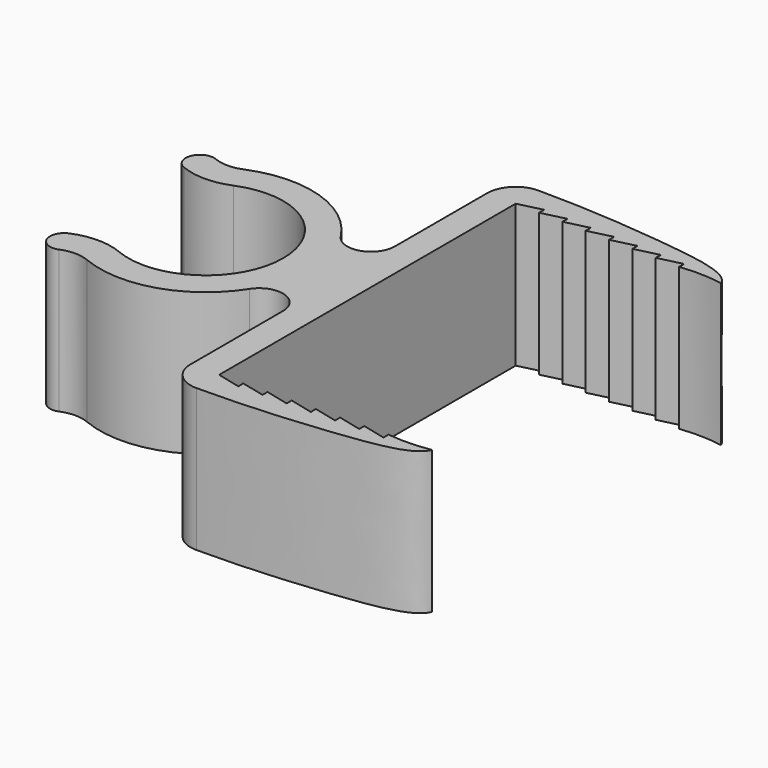
from build123d import *

# Parameters (mm, degrees)
F1_DEPTH = 15


with BuildPart() as f1:
    # F0 (on Top) → F1 (new body)
    with BuildSketch(Plane.XY):
        with BuildLine():
            ThreePointArc((-17.1188699738, 7.52961819), (-5.85, 0), (-17.1188699738, -7.52961819))
            ThreePointArc((-17.1188699738, -7.52961819), (-19.7211173139, -7.011999011), (-22.3233646539, -7.52961819))
            ThreePointArc((-22.3233646539, -7.52961819), (-23.1351588042, -9.4894626373), (-21.1753143568, -10.3012567875))
            ThreePointArc((-21.1753143568, -10.3012567875), (-19.7211173139, -10.011999011), (-18.2669202709, -10.3012567875))
            ThreePointArc((-18.2669202709, -10.3012567875), (-10.6560319472, -10.6367465732), (-4.6062271062, -6.006623912))
            ThreePointArc((-4.6062271062, -6.006623912), (-2.85, 0), (-4.6062271062, 6.006623912))
            ThreePointArc((-4.6062271062, 6.006623912), (-10.6560319472, 10.6367465732), (-18.2669202709, 10.3012567875))
            ThreePointArc((-18.2669202709, 10.3012567875), (-19.7211173139, 10.011999011), (-21.1753143568, 10.3012567875))
            ThreePointArc((-21.1753143568, 10.3012567875), (-23.1351588042, 9.4894626373), (-22.3233646539, 7.52961819))
            ThreePointArc((-22.3233646539, 7.52961819), (-19.7211173139, 7.011999011), (-17.1188699738, 7.52961819))
        make_face()
        with BuildLine():
            ThreePointArc((-4.6062271062, 6.006623912), (-2.85, 0), (-4.6062271062, -6.006623912))
            ThreePointArc((-4.6062271062, -6.006623912), (-1.7984188449, -4.9538623094), (0, -7.3534005739))
            Line((0, -7.3534005739), (0, 0))
            Line((0, 0), (0, 7.3534005739))
            ThreePointArc((0, 7.3534005739), (-1.7984188449, 4.9538623094), (-4.6062271062, 6.006623912))
        make_face()
        with BuildLine():
            Line((0, 19.5), (0, 7.3534005739))
            Line((0, 7.3534005739), (0, 0))
            Line((0, 0), (3, 0))
            Line((3, 0), (3, 19.5))
            Line((3, 19.5), (5.5145750444, 20.1128965303))
            Line((5.5145750444, 20.1128965303), (5.4993545889, 19.4431964866))
            Line((5.4993545889, 19.4431964866), (8.0139296333, 20.0560930169))
            Line((8.0139296333, 20.0560930169), (7.9987091777, 19.3863929732))
            Line((7.9987091777, 19.3863929732), (10.5132842221, 19.9992895035))
            Line((10.5132842221, 19.9992895035), (10.4980637666, 19.3295894599))
            Line((10.4980637666, 19.3295894599), (13.012638811, 19.9424859902))
            Line((13.012638811, 19.9424859902), (12.9974183554, 19.2727859465))
            Line((12.9974183554, 19.2727859465), (15.5119933999, 19.8856824768))
            Line((15.5119933999, 19.8856824768), (15.4967729443, 19.2159824331))
            Line((15.4967729443, 19.2159824331), (18.0113479887, 19.8288789634))
            Line((18.0113479887, 19.8288789634), (17.9961275332, 19.1591789197))
            Line((17.9961275332, 19.1591789197), (20.5107025776, 19.77207545))
            Line((20.5107025776, 19.77207545), (20.495482122, 19.1023754063))
            ThreePointArc((20.495482122, 19.1023754063), (22.7516069101, 19.2212850643), (25, 19))
            add(Edge.make_bspline(
                [(3, 22.5), (8, 22.5), (16.9649489174, 21.8239376647), (24.4, 20.55), (25, 19)],
                knots=[0, 0, 0, 0, 0.5871428907, 1, 1, 1, 1], degree=3))
            ThreePointArc((3, 22.5), (0.8786796564, 21.6213203436), (0, 19.5))
        make_face()
        with BuildLine():
            Line((0, 0), (0, -7.3534005739))
            Line((0, -7.3534005739), (0, -19.5))
            ThreePointArc((0, -19.5), (0.8786796564, -21.6213203436), (3, -22.5))
            add(Edge.make_bspline(
                [(3, -22.5), (8, -22.5), (16.9649489174, -21.8239376647), (24.4, -20.55), (25, -19)],
                knots=[0, 0, 0, 0, 0.5871428907, 1, 1, 1, 1], degree=3))
            ThreePointArc((25, -19), (22.7516069101, -19.2212850643), (20.495482122, -19.1023754063))
            Line((20.495482122, -19.1023754063), (20.5107025776, -19.77207545))
            Line((20.5107025776, -19.77207545), (17.9961275332, -19.1591789197))
            Line((17.9961275332, -19.1591789197), (18.0113479887, -19.8288789634))
            Line((18.0113479887, -19.8288789634), (15.4967729443, -19.2159824331))
            Line((15.4967729443, -19.2159824331), (15.5119933999, -19.8856824768))
            Line((15.5119933999, -19.8856824768), (12.9974183554, -19.2727859465))
            Line((12.9974183554, -19.2727859465), (13.012638811, -19.9424859902))
            Line((13.012638811, -19.9424859902), (10.4980637666, -19.3295894599))
            Line((10.4980637666, -19.3295894599), (10.5132842221, -19.9992895035))
            Line((10.5132842221, -19.9992895035), (7.9987091777, -19.3863929732))
            Line((7.9987091777, -19.3863929732), (8.0139296333, -20.0560930169))
            Line((8.0139296333, -20.0560930169), (5.4993545889, -19.4431964866))
            Line((5.4993545889, -19.4431964866), (5.5145750444, -20.1128965303))
            Line((5.5145750444, -20.1128965303), (3, -19.5))
            Line((3, -19.5), (3, 0))
            Line((3, 0), (0, 0))
        make_face()
    extrude(amount=F1_DEPTH)


solid = f1.part
